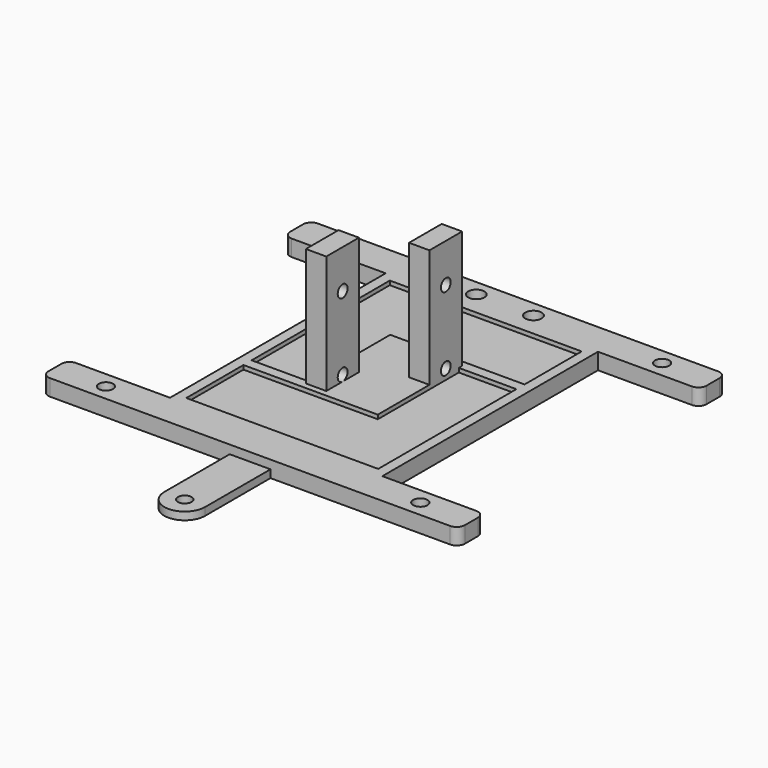
from build123d import *

# Parameters (mm, degrees)
F0_R      = 1.75
F0_R_2    = 2
F1_DEPTH  = 4
F2_DEPTH  = 3
F0_R_3    = 1.6666666667
F3_DEPTH  = 1.9
F4_DEPTH  = 33
F5_R      = 2
F9_R      = 1.5
F10_DEPTH = 25
F8_R      = 1.5
F11_DEPTH = 25


with BuildPart() as f1:
    # F0 (on Top) → F1 (new body)
    with BuildSketch(Plane.XY):
        Polygon((26.8151908007, 97.6259698881), (-25.1848091993, 97.6259698881), (-50.1848091993, 97.6259698881), (-50.1848091993, 89.6259698881), (-25.1848091993, 89.6259698881), (-25.1848091993, 23.6259698881), (-50.1848091993, 23.6259698881), (-50.1848091993, 15.6259698881), (-25.1848091993, 15.6259698881), (-4.1848091993, 15.6259698881), (5.8151908007, 15.6259698881), (26.8151908007, 15.6259698881), (51.8151908007, 15.6259698881), (51.8151908007, 23.6259698881), (26.8151908007, 23.6259698881), (26.8151908007, 89.6259698881), (51.8151908007, 89.6259698881), (51.8151908007, 97.6259698881), align=None)
        with Locations((-37.6848091993, 19.6259698881)):
            Circle(F0_R, mode=Mode.SUBTRACT)
        with Locations((39.3151908007, 19.6259698881)):
            Circle(F0_R, mode=Mode.SUBTRACT)
        with Locations((-37.6848091993, 93.6259698881)):
            Circle(F0_R, mode=Mode.SUBTRACT)
        with Locations((-6.1848091993, 93.6259698881)):
            Circle(F0_R_2, mode=Mode.SUBTRACT)
        Polygon((10.2151908007, 67.7759698881), (24.3151908007, 67.7759698881), (24.3151908007, 25.4759698881), (-22.6848091993, 25.4759698881), (-22.6848091993, 42.9759698881), (10.2151908007, 42.9759698881), (10.2151908007, 58.7915498881), (5.2151908007, 58.7915498881), (5.2151908007, 68.7915498881), (10.2151908007, 68.7915498881), align=None, mode=Mode.SUBTRACT)
        Polygon((24.3151908007, 70.2759698881), (10.2151908007, 70.2759698881), (7.2151908007, 70.2759698881), (-8.5848091993, 70.2759698881), (-8.5848091993, 54.4603863134), (-3.5848091993, 54.4603863134), (-3.5848091993, 44.4603863134), (-8.5848091993, 44.4603863134), (-8.5848091993, 45.4759698881), (-22.6848091993, 45.4759698881), (-22.6848091993, 87.7759698881), (24.3151908007, 87.7759698881), align=None, mode=Mode.SUBTRACT)
        with Locations((7.8151908007, 93.6259698881)):
            Circle(F0_R_2, mode=Mode.SUBTRACT)
        with Locations((39.3151908007, 93.6259698881)):
            Circle(F0_R, mode=Mode.SUBTRACT)
    extrude(amount=F1_DEPTH)

    # F0 (on Top) → F2 (join)
    with BuildSketch(Plane.XY):
        Polygon((24.3151908007, 25.4759698881), (24.3151908007, 67.7759698881), (10.2151908007, 67.7759698881), (10.2151908007, 61.4111642682), (10.2151908007, 58.7915498881), (10.2151908007, 42.9759698881), (-22.6848091993, 42.9759698881), (-22.6848091993, 25.4759698881), align=None)
        Polygon((7.2151908007, 70.2759698881), (10.2151908007, 70.2759698881), (24.3151908007, 70.2759698881), (24.3151908007, 87.7759698881), (-22.6848091993, 87.7759698881), (-22.6848091993, 45.4759698881), (-8.5848091993, 45.4759698881), (-8.5848091993, 54.4603863134), (-8.5848091993, 70.2759698881), align=None)
    extrude(amount=F2_DEPTH)

    # F0 (on Top) → F3 (join)
    with BuildSketch(Plane.XY):
        with BuildLine():
            Line((5.8151908007, 15.6259698881), (-4.1848091993, 15.6259698881))
            Line((-4.1848091993, 15.6259698881), (-4.1848091993, -4.3740301119))
            ThreePointArc((-4.1848091993, -4.3740301119), (0.8151908007, -9.3740301119), (5.8151908007, -4.3740301119))
            Line((5.8151908007, -4.3740301119), (5.8151908007, 15.6259698881))
        make_face()
        with Locations((0.8151908007, -4.3740301119)):
            Circle(F0_R_3, mode=Mode.SUBTRACT)
    extrude(amount=F3_DEPTH)

    # F0 (on Top) → F4 (join)
    with BuildSketch(Plane.XY):
        Polygon((10.2151908007, 61.4111642682), (10.2151908007, 67.7759698881), (10.2151908007, 68.7915498881), (5.2151908007, 68.7915498881), (5.2151908007, 58.7915498881), (10.2151908007, 58.7915498881), align=None)
        Polygon((-3.5848091993, 54.4603863134), (-8.5848091993, 54.4603863134), (-8.5848091993, 45.4759698881), (-8.5848091993, 44.4603863134), (-3.5848091993, 44.4603863134), align=None)
    extrude(amount=F4_DEPTH)

    # F5
    f5_edges = [f1.edges().sort_by_distance(p)[0] for p in [
        (51.815191, 97.62597, 2),
        (-50.184809, 97.62597, 2),
        (-50.184809, 89.62597, 2),
        (-50.184809, 15.62597, 2),
        (51.815191, 23.62597, 2),
        (51.815191, 15.62597, 2),
        (51.815191, 89.62597, 2),
        (-50.184809, 23.62597, 2),
    ]]
    fillet(f5_edges, radius=F5_R)

    # F9 (on offset) → F10 (cut)
    with BuildSketch(Plane(origin=(-8.5848091993, 0, 0), x_dir=(0, -1, 0), z_dir=(-1, 0, 0))):
        with Locations((-49.4603863134, 23.5)):
            Circle(F9_R)
        with Locations((-49.4603863134, 5.5)):
            Circle(F9_R)
    extrude(amount=-F10_DEPTH, mode=Mode.SUBTRACT)

    # F8 (on offset) → F11 (cut)
    with BuildSketch(Plane.YZ.offset(10.2151908007)):
        with Locations((63.7915498881, 5.5)):
            Circle(F8_R)
        with Locations((63.7915498881, 23.5)):
            Circle(F8_R)
    extrude(amount=-F11_DEPTH, mode=Mode.SUBTRACT)


solid = f1.part
